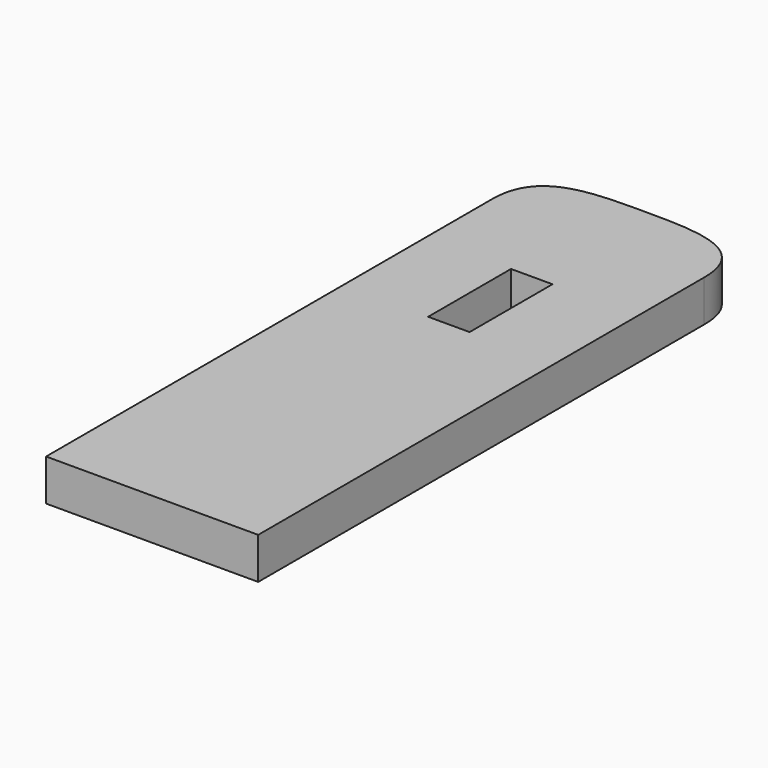
from build123d import *

# Parameters (mm, degrees)
F0_W     = 12.7
F0_H     = 31.75
F1_DEPTH = 12.7


with BuildPart() as f1:
    # F0 (on Top) → F1 (new body)
    with BuildSketch(Plane.XY):
        with BuildLine():
            Line((-32.5, 60), (-32.5, -60))
            Line((-32.5, -60), (32.5, -60))
            Line((32.5, -60), (32.5, 60))
            Line((32.5, 60), (32.5, 110.8))
            add(Edge.make_bspline(
                [(-32.5, 110.8), (-32.5, 128.58), (0, 128.58), (32.5, 128.58), (32.5, 110.8)],
                knots=[0, 0, 0, 0, 37.045626, 74.091252, 74.091252, 74.091252, 74.091252], degree=3))
            Line((-32.5, 110.8), (-32.5, 60))
        make_face()
        with Locations((0, 69.525)):
            Rectangle(F0_W, F0_H, mode=Mode.SUBTRACT)
    extrude(amount=F1_DEPTH)


solid = f1.part
